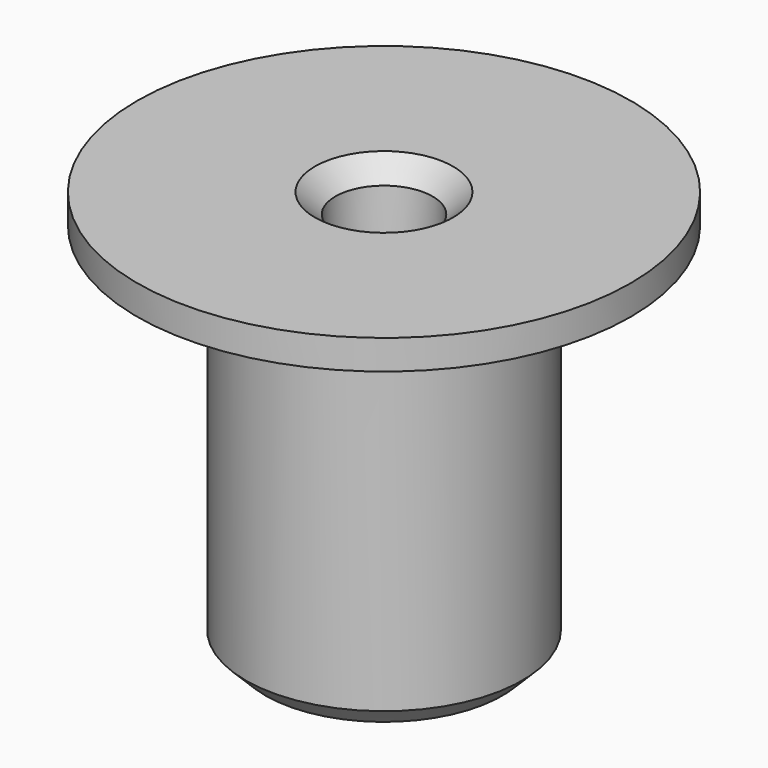
from build123d import *

# Parameters (mm, degrees)
CHAMFER_SIZE    = 1
CHAMFER001_SIZE = 1
SKETCH016_R     = 1.25
POCKET003_DEPTH = 3.5


with BuildPart() as part:
    # Sketch010 → Revolution (revolve)
    with BuildSketch(Plane.XZ):
        Polygon((-2.5, 9.5), (-12.5, 9.5), (-12.5, 8), (-7, 8), (-7, -11), (0, -11), (0, -4), (-2, -4), align=None)
    revolve(axis=Axis((0, 0, 0), (0, 0, 1)))

    # Chamfer
    chamfer_edges = [part.edges().sort_by_distance(p)[0] for p in [
        (2.5, 0, 9.5),
    ]]
    chamfer(chamfer_edges, length=CHAMFER_SIZE)

    # Chamfer001
    chamfer001_edges = [part.edges().sort_by_distance(p)[0] for p in [
        (7, 0, -11),
    ]]
    chamfer(chamfer001_edges, length=CHAMFER001_SIZE)

    # Sketch016 (on Face4 of Chamfer001) → Pocket003 (cut)
    with BuildSketch(Plane(origin=(0, 0, -11), x_dir=(1, 0, 0), z_dir=(0, 0, -1))):
        Circle(SKETCH016_R)
    extrude(amount=-POCKET003_DEPTH, mode=Mode.SUBTRACT)


solid = part.part
